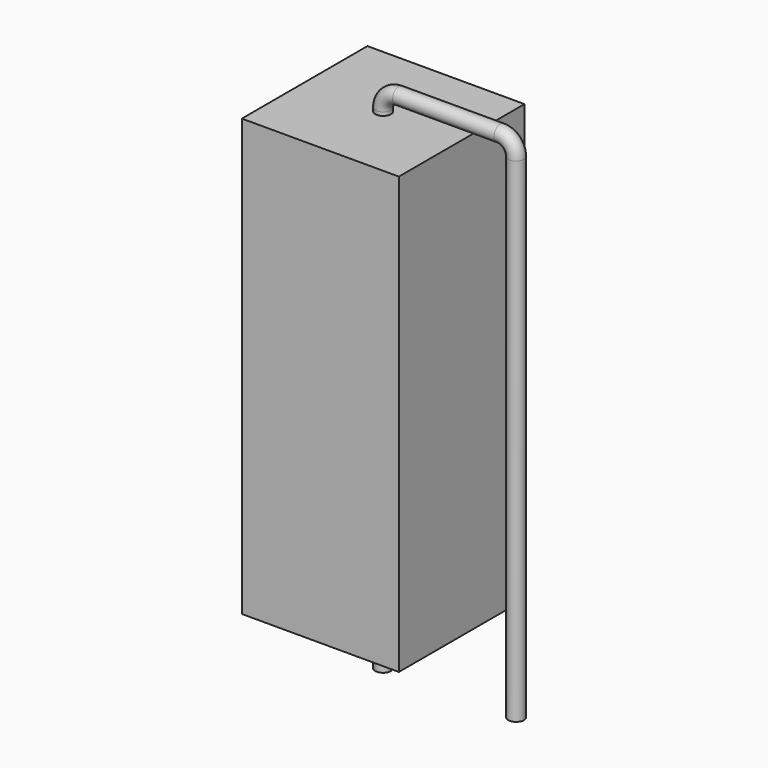
from build123d import *

# Parameters (mm, degrees)
SKETCH_R    = 0.45
SKETCH002_W = 9
SKETCH002_H = 25
PAD_DEPTH   = 4.5


with BuildPart() as sweep_body:
    # Sweep: sweep along a path in Sketch001
    with BuildLine(Plane.XZ) as sweep_path:
        Line((0, -3), (0, 25.3))
        ThreePointArc((0, 25.3), (0.263608, 25.9364), (0.900012, 26.2))
        Line((0.900012, 26.2), (6.72, 26.2))
        ThreePointArc((6.72, 26.2), (7.356396, 25.936396), (7.62, 25.3))
        Line((7.62, 25.3), (7.62, -3))
    # Sketch → Sweep (sweep)
    with BuildSketch(Plane.XY.offset(-2)):
        Circle(SKETCH_R)
    sweep(path=sweep_path.line)


with BuildPart() as pad:
    # Sketch002 → Pad (new body, symmetric)
    with BuildSketch(Plane.XZ):
        with Locations((0, 12.6)):
            Rectangle(SKETCH002_W, SKETCH002_H)
    extrude(amount=PAD_DEPTH, both=True)


solid = Compound([sweep_body.part, pad.part])
